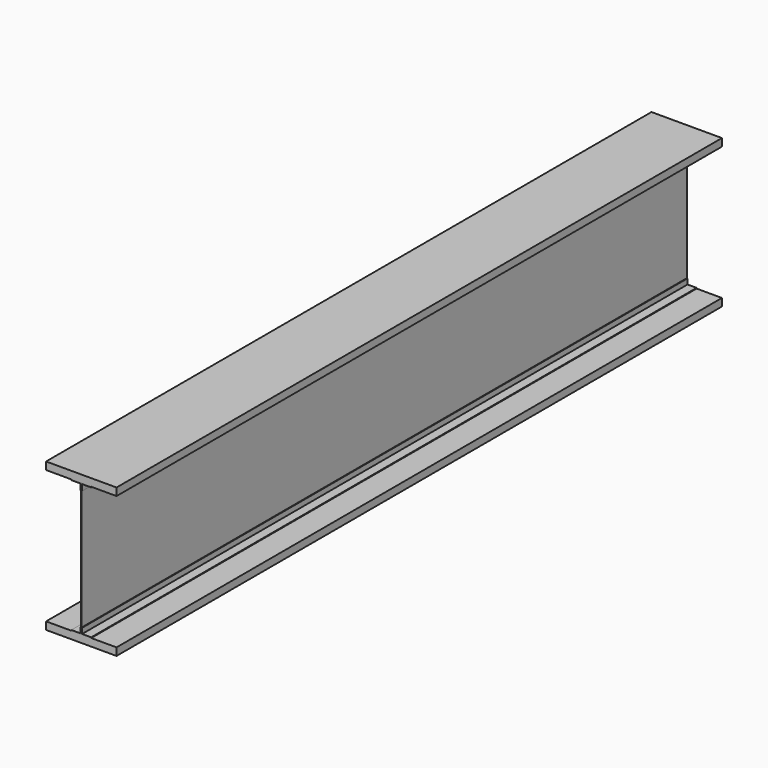
from build123d import *

# Parameters (mm, degrees)
F1_W      = 0.5
F1_H      = 176
F3_DEPTH  = 1000
F2_W      = 93.08
F2_H      = 10
F0_W      = 93.08
F0_H      = 10
F5_DEPTH  = 1000
F7_DEPTH  = 1000
F8_DEPTH  = 25
F10_DEPTH = 1000


with BuildPart() as f3:
    # F1 (on Front) → F3 (new body)
    with BuildSketch(Plane.XZ):
        with Locations((0, -49.5153535176)):
            Rectangle(F1_W, F1_H)
    extrude(amount=F3_DEPTH)


with BuildPart() as f3b:
    # F2 (on Front) → F3, piece 2 (new body)
    with BuildSketch(Plane.XZ):
        with Locations((0, -142.5153535176)):
            Rectangle(F2_W, F2_H)
    extrude(amount=F3_DEPTH)


with BuildPart() as f3c:
    # F0 (on Front) → F3, piece 3 (new body)
    with BuildSketch(Plane.XZ):
        with Locations((0, 43.4846464824)):
            Rectangle(F0_W, F0_H)
    extrude(amount=F3_DEPTH)


with BuildPart() as f5:
    # F4 (on Front) → F5 (new body)
    with BuildSketch(Plane.XZ):
        Polygon((-13.1, -136.6653535176), (-13.1, -137.5153535176), (-0.25, -137.5153535176), (-0.25, -129.5153535176), (-1.1, -129.5153535176), (-1.1, -136.6653535176), align=None)
    extrude(amount=F5_DEPTH)


with BuildPart() as f7:
    # F6 (on Front) → F7 (new body)
    with BuildSketch(Plane.XZ):
        Polygon((-0.25, 38.4846464824), (-13.1, 38.4846464824), (-13.1, 37.6346464824), (-1.1, 37.6346464824), (-1.1, 29.6346464824), (-0.25, 29.6346464824), align=None)
    extrude(amount=F7_DEPTH)


with BuildPart() as f7b:
    # F6 (on Front) → F7, piece 2 (new body)
    with BuildSketch(Plane.XZ):
        Polygon((0.25, 38.4846464824), (0.25, 29.6346464824), (1.1, 29.6346464824), (1.1, 37.6346464824), (13.1, 37.6346464824), (13.1, 38.4846464824), align=None)
    extrude(amount=F7_DEPTH)


with BuildPart() as f8:
    # F6 (on Front) → F8 (new body)
    with BuildSketch(Plane.XZ):
        Polygon((-0.25, 38.4846464824), (-13.1, 38.4846464824), (-13.1, 37.6346464824), (-1.1, 37.6346464824), (-1.1, 29.6346464824), (-0.25, 29.6346464824), align=None)
    extrude(amount=F8_DEPTH)


with BuildPart() as f8b:
    # F6 (on Front) → F8, piece 2 (new body)
    with BuildSketch(Plane.XZ):
        Polygon((0.25, 38.4846464824), (0.25, 29.6346464824), (1.1, 29.6346464824), (1.1, 37.6346464824), (13.1, 37.6346464824), (13.1, 38.4846464824), align=None)
    extrude(amount=F8_DEPTH)


with BuildPart() as f10:
    # F9 (on Front) → F10 (new body)
    with BuildSketch(Plane.XZ):
        Polygon((1.1, -129.5153535176), (0.25, -129.5153535176), (0.25, -137.5153535176), (13.1, -137.5153535176), (13.1, -136.6653535176), (1.1, -136.6653535176), align=None)
    extrude(amount=F10_DEPTH)


solid = Compound([f3.part, f3b.part, f3c.part, f5.part, f7.part, f7b.part, f8.part, f8b.part, f10.part])
